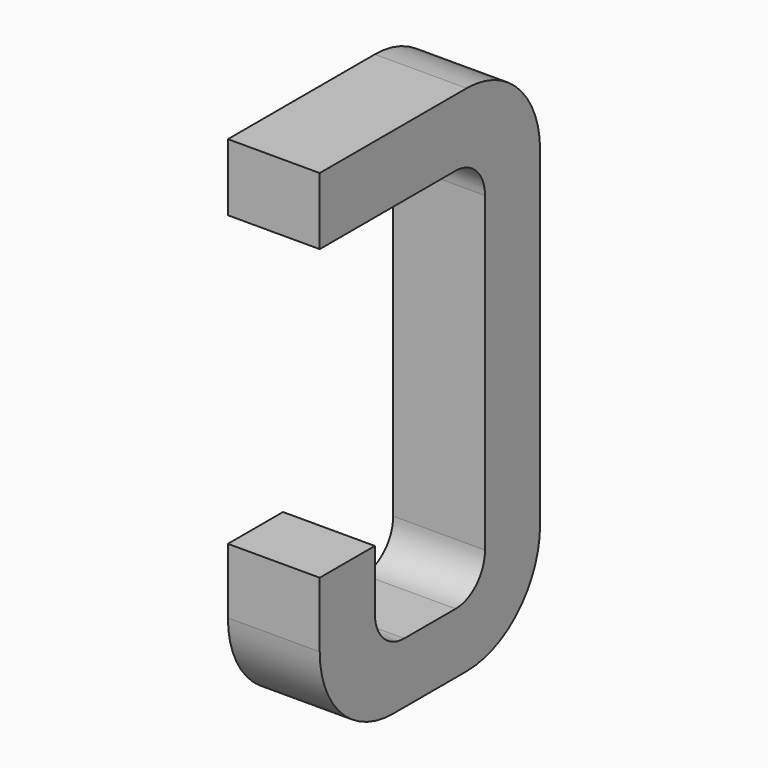
from build123d import *

# Parameters (mm, degrees)
BOX063_W     = 0.5
BOX063_H     = 1.5
BOX063_DEPTH = 2.795
FILLET158_R  = 0.5
FILLET161_R  = 0.5
FILLET157_R  = 0.5
BOX053_W     = 0.75
BOX053_H     = 2.1
BOX053_DEPTH = 1
FILLET159_R  = 0.2
FILLET162_R  = 0.2
FILLET153_R  = 0.2
FILLET156_R  = 0.2
BOX080_W     = 1
BOX080_H     = 1.575
BOX080_DEPTH = 3


with BuildPart() as part:
    # Box063 → Box063 (join)
    with BuildSketch(Plane(origin=(-0.25, 11.125, 0), x_dir=(1, 0, 0), z_dir=(0, 0, 1))):
        with Locations((0.25, 0.75)):
            Rectangle(BOX063_W, BOX063_H)
    extrude(amount=BOX063_DEPTH)

    # Fillet158
    fillet158_edges = [part.edges().sort_by_distance(p)[0] for p in [
        (0, 12.625, 0),
    ]]
    fillet(fillet158_edges, radius=FILLET158_R)

    # Fillet161
    fillet161_edges = [part.edges().sort_by_distance(p)[0] for p in [
        (0, 12.625, 2.795),
    ]]
    fillet(fillet161_edges, radius=FILLET161_R)

    # Fillet157
    fillet157_edges = [part.edges().sort_by_distance(p)[0] for p in [
        (0, 11.125, 0),
    ]]
    fillet(fillet157_edges, radius=FILLET157_R)

    # Box053 → Box053 (cut)
    with BuildSketch(Plane(origin=(-0.5, 11.5, 0.33), x_dir=(0, 1, 0), z_dir=(1, 0, 0))):
        with Locations((0.375, 1.05)):
            Rectangle(BOX053_W, BOX053_H)
    extrude(amount=BOX053_DEPTH, mode=Mode.SUBTRACT)

    # Fillet159
    fillet159_edges = [part.edges().sort_by_distance(p)[0] for p in [
        (0, 11.5, 0.33),
    ]]
    fillet(fillet159_edges, radius=FILLET159_R)

    # Fillet162
    fillet162_edges = [part.edges().sort_by_distance(p)[0] for p in [
        (0, 12.25, 0.33),
    ]]
    fillet(fillet162_edges, radius=FILLET162_R)

    # Fillet153
    fillet153_edges = [part.edges().sort_by_distance(p)[0] for p in [
        (0, 11.5, 2.43),
    ]]
    fillet(fillet153_edges, radius=FILLET153_R)

    # Fillet156
    fillet156_edges = [part.edges().sort_by_distance(p)[0] for p in [
        (0, 12.25, 2.43),
    ]]
    fillet(fillet156_edges, radius=FILLET156_R)

    # Box080 → Box080 (cut)
    with BuildSketch(Plane(origin=(-1, 11, 0.855), x_dir=(0, 1, 0), z_dir=(1, 0, 0))):
        with Locations((0.5, 0.7875)):
            Rectangle(BOX080_W, BOX080_H)
    extrude(amount=BOX080_DEPTH, mode=Mode.SUBTRACT)


solid = part.part
